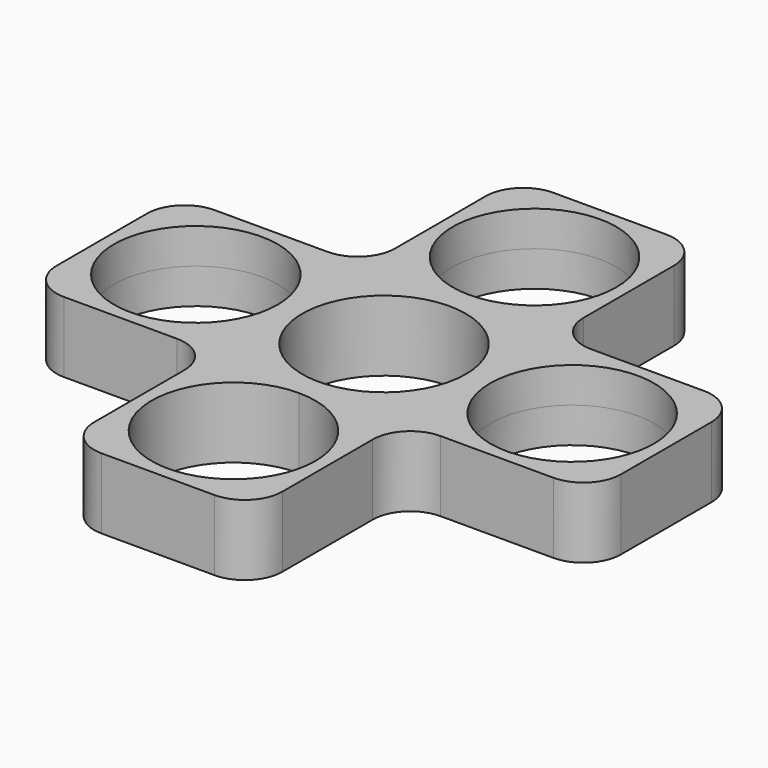
from build123d import *

# Parameters (mm, degrees)
F0_R     = 12.7
F0_R_2   = 11.049
F1_DEPTH = 4.7625
F2_R     = 11.049
F3_DEPTH = 4.7625
F4_R     = 5.08


with BuildPart() as f1:
    # F0 (on Top) → F1 (new body, symmetric)
    with BuildSketch(Plane.XY):
        Circle(F0_R)
        Circle(F0_R_2, mode=Mode.SUBTRACT)
    extrude(amount=F1_DEPTH, both=True)

    # F2 (on Top) → F3 (join, symmetric)
    with BuildSketch(Plane.XY):
        with BuildLine():
            Line((0, 38.1), (-12.7, 38.1))
            Line((-12.7, 38.1), (-12.7, 25.4))
            ThreePointArc((-12.7, 25.4), (-8.980256, 34.380256), (0, 38.1))
        make_face()
        with BuildLine():
            Line((12.7, 38.1), (0, 38.1))
            ThreePointArc((0, 38.1), (8.980256, 34.380256), (12.7, 25.4))
            Line((12.7, 25.4), (12.7, 38.1))
        make_face()
        with BuildLine():
            ThreePointArc((11.049, 25.4), (-7.812823, 33.212823), (0, 14.351))
            ThreePointArc((0, 14.351), (7.812823, 17.587177), (11.049, 25.4))
        make_face()
        with BuildLine():
            ThreePointArc((12.7, 25.4), (8.980256, 34.380256), (0, 38.1))
            ThreePointArc((0, 38.1), (-8.980256, 34.380256), (-12.7, 25.4))
            ThreePointArc((-12.7, 25.4), (-8.980256, 16.419744), (0, 12.7))
            ThreePointArc((0, 12.7), (8.980256, 16.419744), (12.7, 25.4))
        make_face()
        with BuildLine():
            ThreePointArc((11.049, 25.4), (7.812823, 17.587177), (0, 14.351))
            ThreePointArc((0, 14.351), (-7.812823, 33.212823), (11.049, 25.4))
        make_face(mode=Mode.SUBTRACT)
        with BuildLine():
            ThreePointArc((0, 12.7), (-8.980256, 16.419744), (-12.7, 25.4))
            Line((-12.7, 25.4), (-12.7, 12.7))
            Line((-12.7, 12.7), (-25.4, 12.7))
            ThreePointArc((-25.4, 12.7), (-16.419744, 8.980256), (-12.7, 0))
            ThreePointArc((-12.7, 0), (-8.980256, 8.980256), (0, 12.7))
        make_face()
        with BuildLine():
            Line((12.7, 12.7), (12.7, 25.4))
            ThreePointArc((12.7, 25.4), (8.980256, 16.419744), (0, 12.7))
            ThreePointArc((0, 12.7), (8.980256, 8.980256), (12.7, 0))
            ThreePointArc((12.7, 0), (16.419744, 8.980256), (25.4, 12.7))
            Line((25.4, 12.7), (12.7, 12.7))
        make_face()
        with Locations((-25.4, 0)):
            Circle(F2_R)
        with BuildLine():
            ThreePointArc((-12.7, 0), (-16.419744, 8.980256), (-25.4, 12.7))
            ThreePointArc((-25.4, 12.7), (-34.380256, 8.980256), (-38.1, 0))
            ThreePointArc((-38.1, 0), (-34.380256, -8.980256), (-25.4, -12.7))
            ThreePointArc((-25.4, -12.7), (-16.419744, -8.980256), (-12.7, 0))
        make_face()
        with Locations((-25.4, 0)):
            Circle(F2_R, mode=Mode.SUBTRACT)
        with BuildLine():
            ThreePointArc((-38.1, 0), (-34.380256, 8.980256), (-25.4, 12.7))
            Line((-25.4, 12.7), (-38.1, 12.7))
            Line((-38.1, 12.7), (-38.1, 0))
        make_face()
        with BuildLine():
            ThreePointArc((36.449, 0), (25.4, 11.049), (14.351, 0))
            ThreePointArc((14.351, 0), (25.4, -11.049), (36.449, 0))
        make_face()
        with BuildLine():
            ThreePointArc((25.4, 12.7), (16.419744, 8.980256), (12.7, 0))
            ThreePointArc((12.7, 0), (16.419744, -8.980256), (25.4, -12.7))
            ThreePointArc((25.4, -12.7), (34.380256, -8.980256), (38.1, 0))
            ThreePointArc((38.1, 0), (34.380256, 8.980256), (25.4, 12.7))
        make_face()
        with BuildLine():
            ThreePointArc((36.449, 0), (25.4, -11.049), (14.351, 0))
            ThreePointArc((14.351, 0), (25.4, 11.049), (36.449, 0))
        make_face(mode=Mode.SUBTRACT)
        with BuildLine():
            ThreePointArc((25.4, -12.7), (16.419744, -8.980256), (12.7, 0))
            ThreePointArc((12.7, 0), (8.980256, -8.980256), (0, -12.7))
            ThreePointArc((0, -12.7), (8.980256, -16.419744), (12.7, -25.4))
            Line((12.7, -25.4), (12.7, -12.7))
            Line((12.7, -12.7), (25.4, -12.7))
        make_face()
        with BuildLine():
            ThreePointArc((0, -12.7), (-8.980256, -8.980256), (-12.7, 0))
            ThreePointArc((-12.7, 0), (-16.419744, -8.980256), (-25.4, -12.7))
            Line((-25.4, -12.7), (-12.7, -12.7))
            Line((-12.7, -12.7), (-12.7, -25.4))
            ThreePointArc((-12.7, -25.4), (-8.980256, -16.419744), (0, -12.7))
        make_face()
        with BuildLine():
            Line((38.1, 12.7), (25.4, 12.7))
            ThreePointArc((25.4, 12.7), (34.380256, 8.980256), (38.1, 0))
            Line((38.1, 0), (38.1, 12.7))
        make_face()
        with BuildLine():
            ThreePointArc((-25.4, -12.7), (-34.380256, -8.980256), (-38.1, 0))
            Line((-38.1, 0), (-38.1, -12.7))
            Line((-38.1, -12.7), (-25.4, -12.7))
        make_face()
        with BuildLine():
            ThreePointArc((38.1, 0), (34.380256, -8.980256), (25.4, -12.7))
            Line((25.4, -12.7), (38.1, -12.7))
            Line((38.1, -12.7), (38.1, 0))
        make_face()
        with BuildLine():
            ThreePointArc((11.049, -25.4), (7.812823, -17.587177), (0, -14.351))
            ThreePointArc((0, -14.351), (-7.812823, -33.212823), (11.049, -25.4))
        make_face()
        with BuildLine():
            ThreePointArc((12.7, -25.4), (8.980256, -16.419744), (0, -12.7))
            ThreePointArc((0, -12.7), (-8.980256, -16.419744), (-12.7, -25.4))
            ThreePointArc((-12.7, -25.4), (-8.980256, -34.380256), (0, -38.1))
            ThreePointArc((0, -38.1), (8.980256, -34.380256), (12.7, -25.4))
        make_face()
        with BuildLine():
            ThreePointArc((11.049, -25.4), (-7.812823, -33.212823), (0, -14.351))
            ThreePointArc((0, -14.351), (7.812823, -17.587177), (11.049, -25.4))
        make_face(mode=Mode.SUBTRACT)
        with BuildLine():
            Line((12.7, -38.1), (12.7, -25.4))
            ThreePointArc((12.7, -25.4), (8.980256, -34.380256), (0, -38.1))
            Line((0, -38.1), (12.7, -38.1))
        make_face()
        with BuildLine():
            ThreePointArc((0, -38.1), (-8.980256, -34.380256), (-12.7, -25.4))
            Line((-12.7, -25.4), (-12.7, -38.1))
            Line((-12.7, -38.1), (0, -38.1))
        make_face()
    extrude(amount=F3_DEPTH, both=True)

    # F4
    f4_edges = [f1.edges().sort_by_distance(p)[0] for p in [
        (12.7, -12.7, 0),
        (12.7, -38.1, 0),
        (-12.7, -38.1, 0),
        (38.1, -12.7, 0),
        (38.1, 12.7, 0),
        (12.7, 38.1, 0),
        (-38.1, 12.7, 0),
        (-12.7, 38.1, 0),
        (12.7, 12.7, 0),
        (-12.7, 12.7, 0),
        (-38.1, -12.7, 0),
        (-12.7, -12.7, 0),
    ]]
    fillet(f4_edges, radius=F4_R)


solid = f1.part
